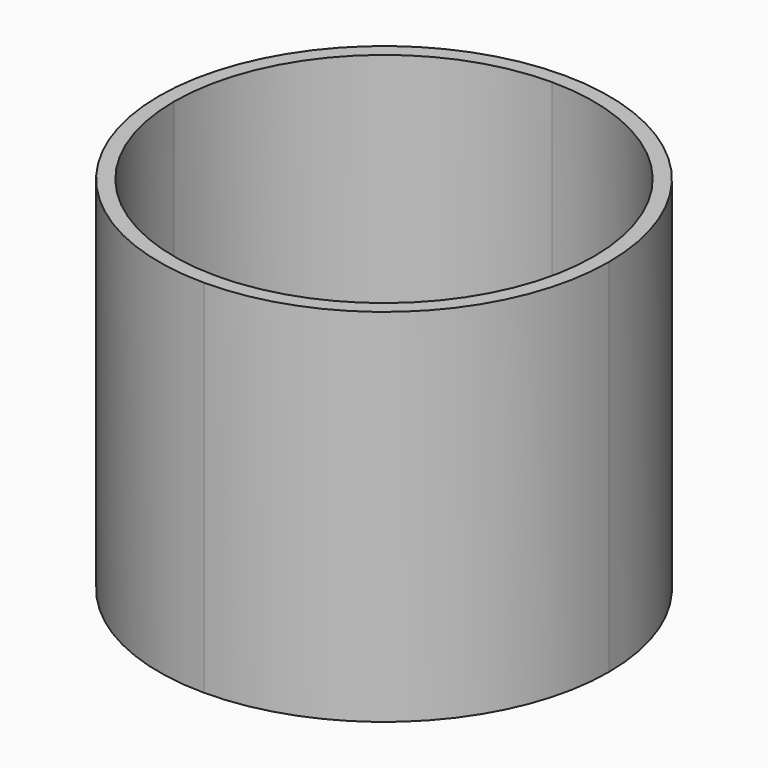
from build123d import *

# Parameters (mm, degrees)
F1_DEPTH = 61.171658
F2_T     = -2.54


with BuildPart() as f1:
    # F0 (on Top) → F1 (new body)
    with BuildSketch(Plane.XY):
        with BuildLine():
            ThreePointArc((-38.1, 0), (-26.940768, -26.940768), (0, -38.1))
            ThreePointArc((0, -38.1), (26.940768, -26.940768), (38.1, 0))
            ThreePointArc((38.1, 0), (26.940768, 26.940768), (0, 38.1))
            ThreePointArc((0, 38.1), (-26.940768, 26.940768), (-38.1, 0))
        make_face()
    extrude(amount=F1_DEPTH)

    # F2
    f2_openings = [f1.faces().sort_by_distance(p)[0] for p in [
        (0, 0, 61.171658),
    ]]
    offset(amount=F2_T, openings=f2_openings)


solid = f1.part
